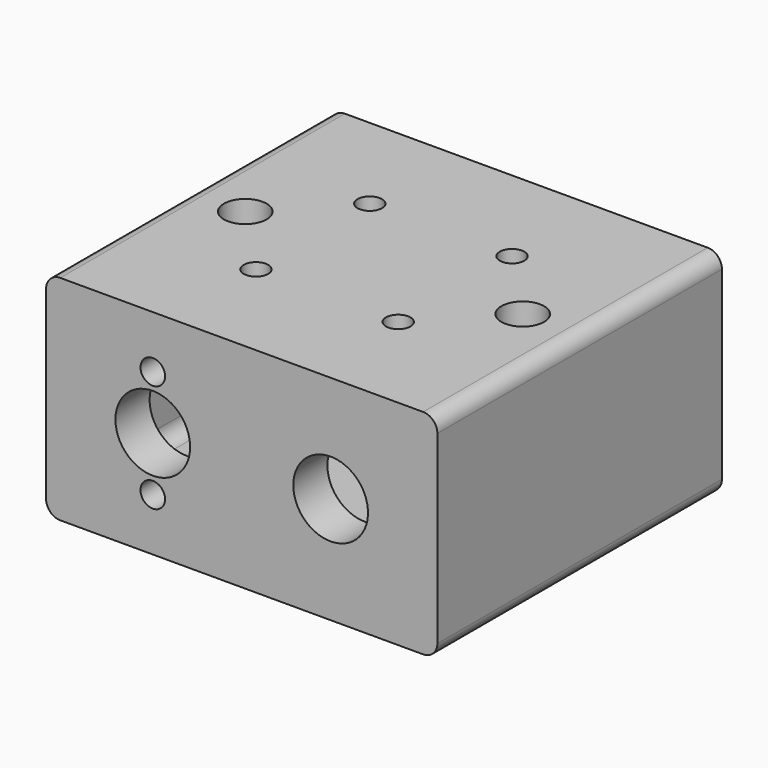
from build123d import *

# Parameters (mm, degrees)
F0_W      = 55
F0_H      = 50
F0_R      = 3.5
F0_R_2    = 1.725
F1_DEPTH  = 4
F2_R      = 3.5
F3_DEPTH  = 2
F5_DEPTH  = 22
F6_R      = 5.25
F6_R_2    = 1.725
F7_DEPTH  = 6
F8_W      = 55
F8_H      = 50
F9_DEPTH  = 4
F10_R     = 2
F11_R     = 1.725
F12_DEPTH = 4
F14_DEPTH = 2
F15_R     = 3
F16_DEPTH = 4.2689492924


with BuildPart() as f1:
    # F0 (on Top) → F1 (new body)
    with BuildSketch(Plane.XY):
        with Locations((27.5, 25)):
            Rectangle(F0_W, F0_H)
        with Locations((17.5, 15)):
            Circle(F0_R, mode=Mode.SUBTRACT)
        with Locations((37.5, 15)):
            Circle(F0_R, mode=Mode.SUBTRACT)
        with Locations((17.5, 35)):
            Circle(F0_R, mode=Mode.SUBTRACT)
        with Locations((37.5, 35)):
            Circle(F0_R, mode=Mode.SUBTRACT)
        with Locations((17.5, 35)):
            Circle(F0_R)
        with Locations((17.5, 35)):
            Circle(F0_R_2, mode=Mode.SUBTRACT)
        with Locations((37.5, 35)):
            Circle(F0_R)
        with Locations((37.5, 35)):
            Circle(F0_R_2, mode=Mode.SUBTRACT)
        with Locations((37.5, 15)):
            Circle(F0_R)
        with Locations((37.5, 15)):
            Circle(F0_R_2, mode=Mode.SUBTRACT)
        with Locations((17.5, 15)):
            Circle(F0_R)
        with Locations((17.5, 15)):
            Circle(F0_R_2, mode=Mode.SUBTRACT)
    extrude(amount=F1_DEPTH)

    # F2 (on face) → F3 (cut)
    with BuildSketch(Plane.XY.offset(4)):
        with Locations((17.5, 35)):
            Circle(F2_R)
        with Locations((37.5, 35)):
            Circle(F2_R)
        with Locations((37.5, 15)):
            Circle(F2_R)
        with Locations((17.5, 15)):
            Circle(F2_R)
    extrude(amount=-F3_DEPTH, mode=Mode.SUBTRACT)

    # F4 (on face) → F5 (join)
    with BuildSketch(Plane.XY.offset(4)):
        Polygon((4, 50), (0, 50), (0, 0), (55, 0), (55, 50), (51, 50), (51, 6), (4, 6), align=None)
    extrude(amount=F5_DEPTH)

    # F6 (on face) → F7 (cut, through all)
    with BuildSketch(Plane(origin=(0, 6, 0), x_dir=(-1, 0, 0), z_dir=(0, 1, 0))):
        with Locations((-40, 15)):
            Circle(F6_R)
        with Locations((-15, 22.6)):
            Circle(F6_R_2)
        with Locations((-15, 7.4)):
            Circle(F6_R_2)
        with Locations((-15, 15)):
            Circle(F6_R)
    extrude(amount=-F7_DEPTH, mode=Mode.SUBTRACT)

    # F8 (on face) → F9 (join)
    with BuildSketch(Plane.XY.offset(26)):
        with Locations((27.5, 25)):
            Rectangle(F8_W, F8_H)
    extrude(amount=F9_DEPTH)

    # F10
    f10_edges = [f1.edges().sort_by_distance(p)[0] for p in [
        (0, 25, 30),
        (0, 25, 0),
        (55, 25, 0),
        (55, 25, 30),
        (51, 28, 26),
        (4, 28, 26),
        (4, 28, 4),
        (51, 28, 4),
    ]]
    fillet(f10_edges, radius=F10_R)

    # F11 (on face) → F12 (cut, through all)
    with BuildSketch(Plane.XY.offset(30)):
        with Locations((17.5, 35)):
            Circle(F11_R)
        with Locations((37.5, 35)):
            Circle(F11_R)
        with Locations((37.5, 15)):
            Circle(F11_R)
        with Locations((17.5, 15)):
            Circle(F11_R)
    extrude(amount=-F12_DEPTH, mode=Mode.SUBTRACT)

    # F13 (on face) → F14 (cut)
    with BuildSketch(Plane(origin=(0, 0, 26), x_dir=(1, 0, 0), z_dir=(0, 0, -1))):
        Polygon((20.26, -13.406513257), (17.5, -11.8130265141), (14.74, -13.406513257), (14.74, -16.593486743), (17.5, -18.1869734859), (20.26, -16.593486743), align=None)
        Polygon((40.26, -13.406513257), (37.5, -11.8130265141), (34.74, -13.406513257), (34.74, -16.593486743), (37.5, -18.1869734859), (40.26, -16.593486743), align=None)
        Polygon((40.26, -33.406513257), (37.5, -31.8130265141), (34.74, -33.406513257), (34.74, -36.593486743), (37.5, -38.1869734859), (40.26, -36.593486743), align=None)
        Polygon((20.26, -33.406513257), (17.5, -31.8130265141), (14.74, -33.406513257), (14.74, -36.593486743), (17.5, -38.1869734859), (20.26, -36.593486743), align=None)
    extrude(amount=-F14_DEPTH, mode=Mode.SUBTRACT)

    # F15 (on face) → F16 (cut, through all)
    with BuildSketch(Plane.XY.offset(30)):
        with Locations((8, 25)):
            Circle(F15_R)
        with Locations((47, 25)):
            Circle(F15_R)
    extrude(amount=-F16_DEPTH, mode=Mode.SUBTRACT)


solid = f1.part
